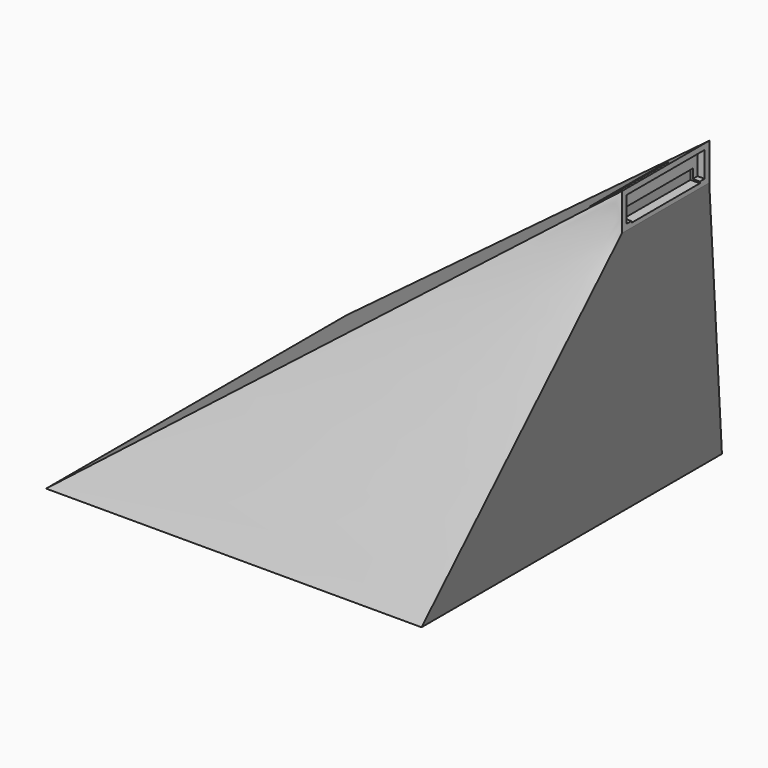
from build123d import *

# Parameters (mm, degrees)
F2_W     = 40
F2_H     = 40
F1_W     = 11.62594
F1_H     = 3.948428
F4_T     = -1
F5_W     = 10.396668
F5_H     = 2.707422
F6_DEPTH = 0.75
F7_W     = 9.11848
F7_H     = 1.157649
F8_DEPTH = 12.5


with BuildPart() as f3:
    # F2 (on Top) → F3 section 0
    with BuildSketch(Plane.XY):
        Rectangle(F2_W, F2_H)
    # F1 (on offset) → F3 section 1
    with BuildSketch(Plane.YZ.offset(30)):
        with Locations((0, 36.419885)):
            Rectangle(F1_W, F1_H)
    loft()

    # F4
    f4_openings = [f3.faces().sort_by_distance(p)[0] for p in [
        (0, 0, 0),
    ]]
    offset(amount=F4_T, openings=f4_openings)

    # F5 (on face) → F6 (cut, symmetric)
    with BuildSketch(Plane.YZ.offset(30)):
        with Locations((0, 36.427658)):
            Rectangle(F5_W, F5_H)
    extrude(amount=F6_DEPTH, both=True, mode=Mode.SUBTRACT)

    # F7 (on face) → F8 (cut, symmetric)
    with BuildSketch(Plane(origin=(29, 0, 0), x_dir=(0, -1, 0), z_dir=(-1, 0, 0))):
        with Locations((0, 35.482139)):
            Rectangle(F7_W, F7_H)
    extrude(amount=F8_DEPTH, both=True, mode=Mode.SUBTRACT)


solid = f3.part
